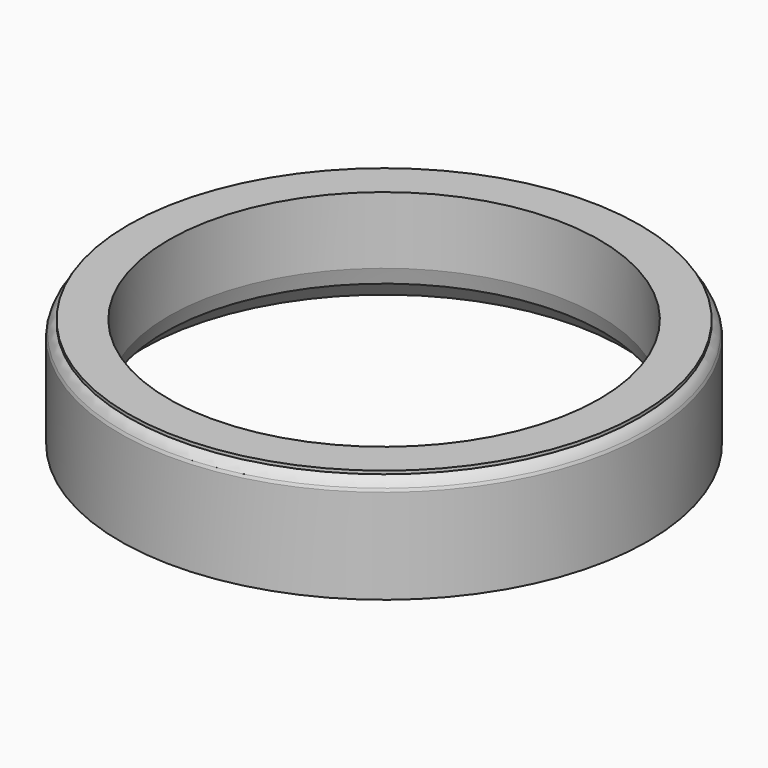
from build123d import *


with BuildPart() as f1:
    # F0 (on Front) → F1 (revolve)
    with BuildSketch(Plane.XZ):
        with BuildLine():
            Line((10.4, 2.295102), (11.4, 1.312405))
            Line((11.4, 1.312405), (12, 1.03262))
            Line((12, 1.03262), (12.5, 1.03262))
            Line((12.5, 1.03262), (12.5, 5.51562))
            Line((12.5, 5.51562), (12.448697, 5.656574))
            ThreePointArc((12.448697, 5.656574), (12.316123, 5.88953), (12.114043, 6.06562))
            Line((12.114043, 6.06562), (12.114043, 6.21562))
            Line((12.114043, 6.21562), (10.2, 6.21562))
            Line((10.2, 6.21562), (10.2, 3.041512))
            Line((10.2, 3.041512), (10.4, 2.295102))
        make_face()
    revolve(axis=Axis((0, 0, 46.703876), (0, 0, 1)))


solid = f1.part
